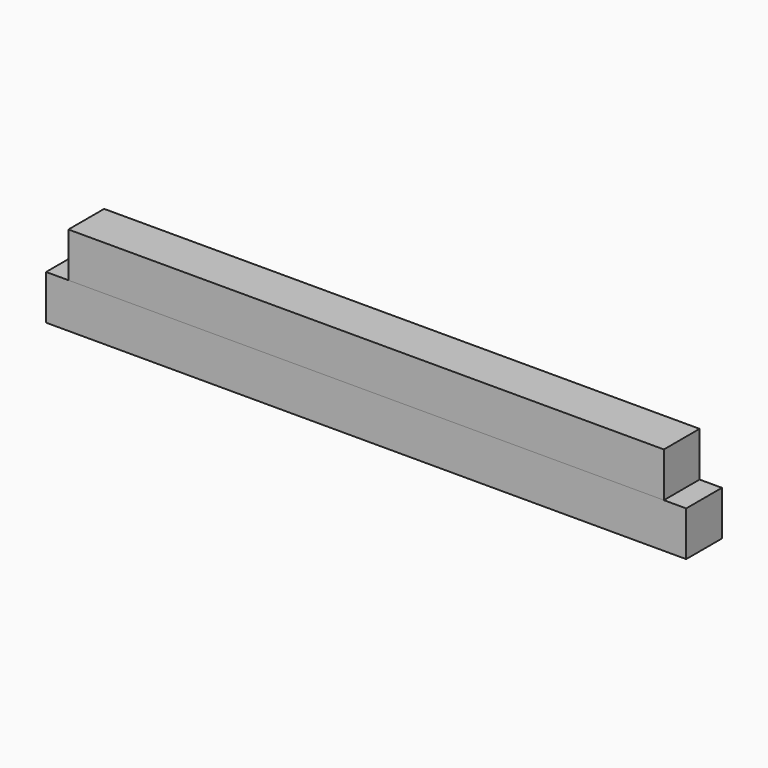
from build123d import *

# Parameters (mm, degrees)
F0_W     = 150
F0_H     = 150
F1_DEPTH = 1075
F2_DEPTH = 1000


with BuildPart() as f1:
    # F0 (on Right) → F1 (new body, symmetric)
    with BuildSketch(Plane.YZ):
        Rectangle(F0_W, F0_H)
    extrude(amount=F1_DEPTH, both=True)


with BuildPart() as f2:
    # F0 (on Right) → F2 (new body, symmetric)
    with BuildSketch(Plane.YZ):
        with Locations((0, 150)):
            Rectangle(F0_W, F0_H)
    extrude(amount=F2_DEPTH, both=True)


solid = Compound([f1.part, f2.part])
